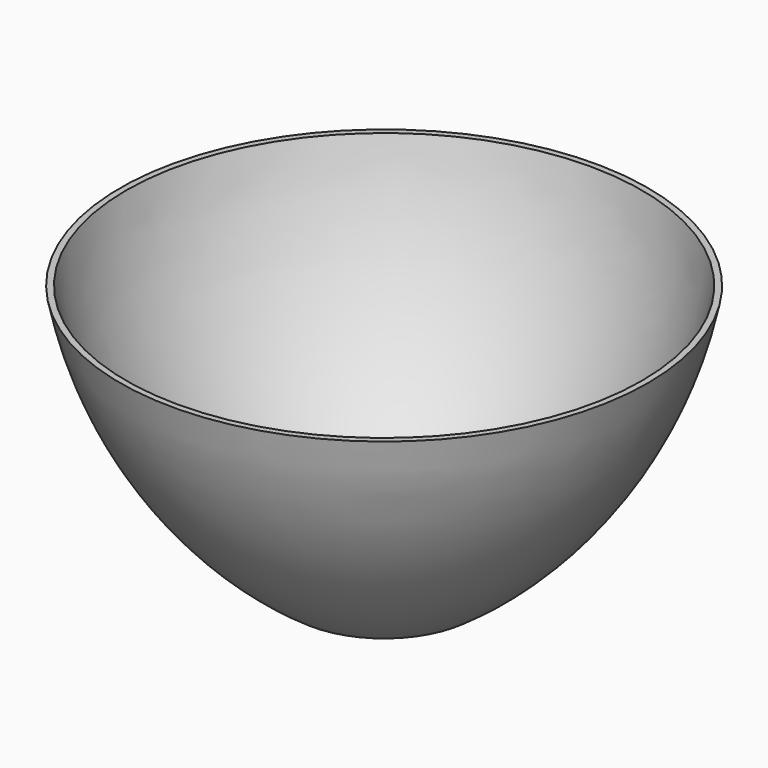
from build123d import *


with BuildPart() as f1:
    # F0 (on Front) → F1 (revolve)
    with BuildSketch(Plane.XZ):
        with BuildLine():
            Line((0, 0.5), (0, 0))
            Line((0, 0), (7.5, 0))
            ThreePointArc((7.5, 0), (16.899285, 9.583426), (22, 22))
            Line((22, 22), (21.490009, 22))
            ThreePointArc((21.490009, 22), (16.496936, 9.881558), (7.344133, 0.5))
            Line((7.344133, 0.5), (0, 0.5))
        make_face()
    revolve(axis=Axis((0, 0, 18.411556), (0, 0, 1)))


solid = f1.part
